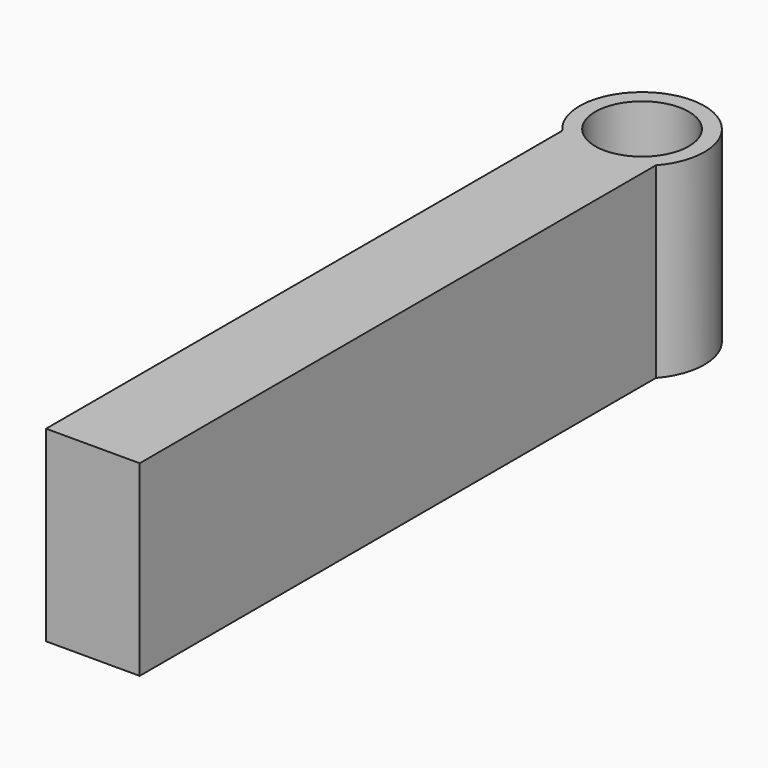
from build123d import *

# Parameters (mm, degrees)
F0_R     = 10
F1_DEPTH = 30
F2_W     = 15
F2_H     = 30
F3_DEPTH = 110
F4_R     = 7.5
F5_DEPTH = 30


with BuildPart() as f1:
    # F0 (on Top) → F1 (new body)
    with BuildSketch(Plane.XY):
        Circle(F0_R)
    extrude(amount=F1_DEPTH)

    # F2 (on Front) → F3 (join)
    with BuildSketch(Plane.XZ):
        with Locations((0, 15)):
            Rectangle(F2_W, F2_H)
    extrude(amount=F3_DEPTH)

    # F4 (on face) → F5 (cut, through all)
    with BuildSketch(Plane.XY.offset(30)):
        Circle(F4_R)
    extrude(amount=-F5_DEPTH, mode=Mode.SUBTRACT)


solid = f1.part
